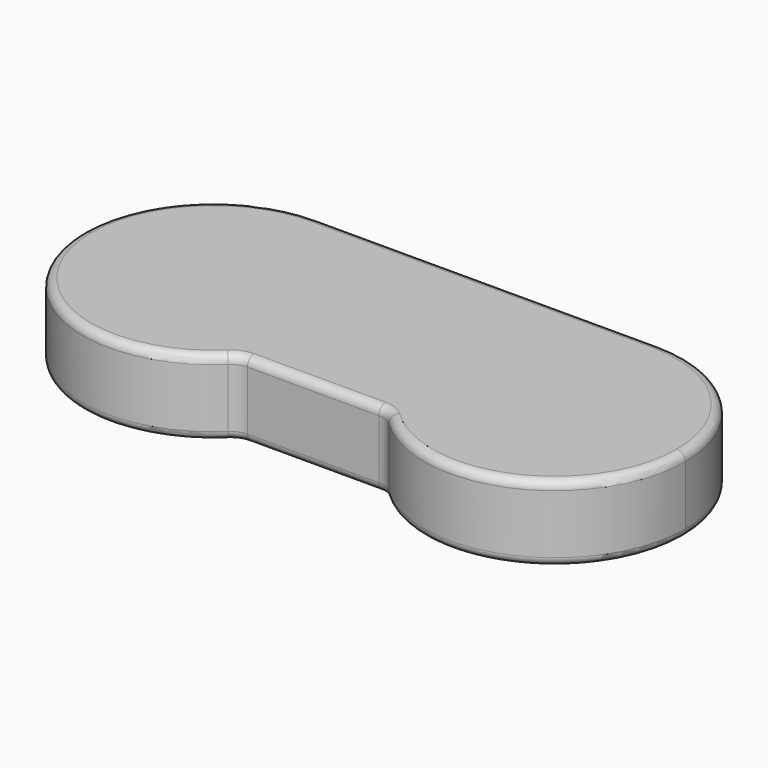
from build123d import *

# Parameters (mm, degrees)
F1_DEPTH = 18
F2_R     = 5
F3_R     = 2
F4_R     = 2


with BuildPart() as f1:
    # F0 (on Top) → F1 (new body)
    with BuildSketch(Plane.XY):
        with BuildLine():
            Line((42.340133, 55.661296), (-38.659867, 55.661296))
            ThreePointArc((-38.659867, 55.661296), (-60.580177, 46.581606), (-69.659867, 24.661296))
            ThreePointArc((-69.659867, 24.661296), (-49.931318, -4.216973), (-15.856358, 3.661296))
            Line((-15.856358, 3.661296), (1.840133, 3.661296))
            Line((1.840133, 3.661296), (19.536625, 3.661296))
            ThreePointArc((19.536625, 3.661296), (53.611585, -4.216973), (73.340133, 24.661296))
            ThreePointArc((73.340133, 24.661296), (64.260443, 46.581606), (42.340133, 55.661296))
        make_face()
    extrude(amount=F1_DEPTH)

    # F2
    f2_edges = [f1.edges().sort_by_distance(p)[0] for p in [
        (19.536625, 3.661296, 9),
        (-15.856358, 3.661296, 9),
    ]]
    fillet(f2_edges, radius=F2_R)

    # F3
    f3_edges = [f1.edges().sort_by_distance(p)[0] for p in [
        (71.106916, 13.108278, 18),
        (19.303724, 3.301099, 18),
        (1.840133, 55.661296, 18),
        (1.840133, 3.661296, 18),
        (-67.426649, 13.108278, 18),
        (-15.623458, 3.301099, 18),
    ]]
    fillet(f3_edges, radius=F3_R)

    # F4
    f4_edges = [f1.edges().sort_by_distance(p)[0] for p in [
        (-67.426649, 13.108278, 0),
        (-15.623458, 3.301099, 0),
        (1.840133, 55.661296, 0),
        (1.840133, 3.661296, 0),
        (71.106916, 13.108278, 0),
        (19.303724, 3.301099, 0),
    ]]
    fillet(f4_edges, radius=F4_R)


solid = f1.part
